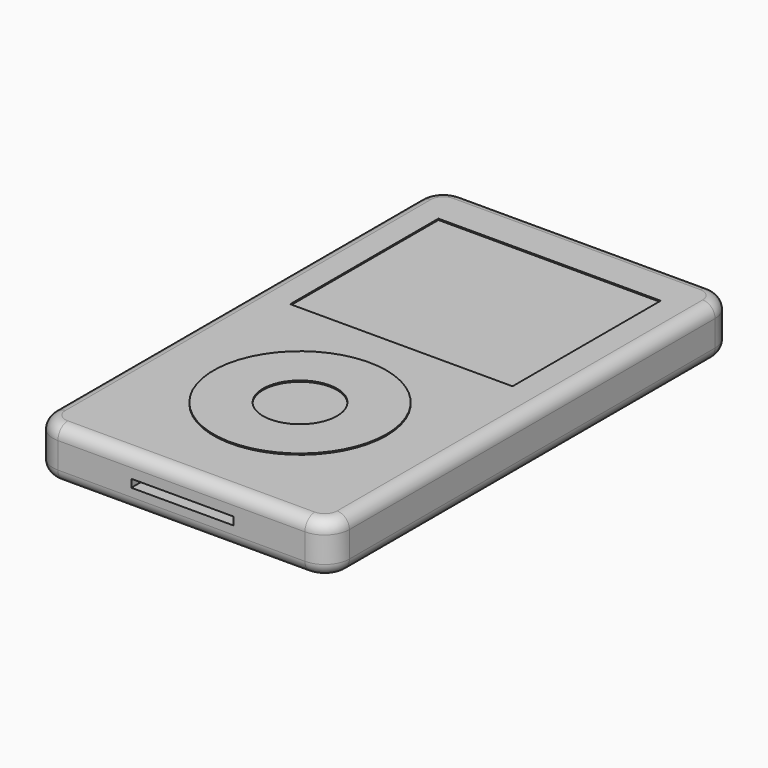
from build123d import *

# Parameters (mm, degrees)
F0_W      = 60.96
F0_H      = 104.14
F1_DEPTH  = 10.414
F2_R      = 5.08
F3_R      = 17.78
F3_R_2    = 7.62
F4_DEPTH  = 0.254
F5_R      = 2.54
F6_W      = 45.72
F6_H      = 38.1
F7_DEPTH  = 0.254
F8_R      = 1.763913
F9_DEPTH  = 19.05
F10_W     = 21.063223
F10_H     = 1.628075
F11_DEPTH = 19.05


with BuildPart() as f1:
    # F0 (on Top) → F1 (new body)
    with BuildSketch(Plane.XY):
        with Locations((-7.626853, -3.795236)):
            Rectangle(F0_W, F0_H)
    extrude(amount=F1_DEPTH)

    # F2
    f2_edges = [f1.edges().sort_by_distance(p)[0] for p in [
        (22.853147, 48.274764, 5.207),
        (-38.106853, 48.274764, 5.207),
        (22.853147, -55.865236, 5.207),
        (-38.106853, -55.865236, 5.207),
    ]]
    fillet(f2_edges, radius=F2_R)

    # F3 (on face) → F4 (join)
    with BuildSketch(Plane.XY.offset(10.414)):
        with Locations((-7.626853, -25.385236)):
            Circle(F3_R)
        with Locations((-7.626853, -25.385236)):
            Circle(F3_R_2, mode=Mode.SUBTRACT)
    extrude(amount=F4_DEPTH)

    # F5
    f5_edges = [f1.edges().sort_by_distance(p)[0] for p in [
        (22.853147, -3.795236, 10.414),
        (-38.106853, -3.795236, 0),
    ]]
    fillet(f5_edges, radius=F5_R)

    # F6 (on face) → F7 (cut)
    with BuildSketch(Plane.XY.offset(10.414)):
        with Locations((-7.626853, 19.714694)):
            Rectangle(F6_W, F6_H)
    extrude(amount=-F7_DEPTH, mode=Mode.SUBTRACT)

    # F8 (on face) → F9 (cut)
    with BuildSketch(Plane(origin=(0, 48.274764, 0), x_dir=(-1, 0, 0), z_dir=(0, 1, 0))):
        with Locations((-13.314613, 4.846008)):
            Circle(F8_R)
    extrude(amount=-F9_DEPTH, mode=Mode.SUBTRACT)

    # F10 (on face) → F11 (cut)
    with BuildSketch(Plane.XZ.offset(55.865236)):
        with Locations((-7.410378, 5.054059)):
            Rectangle(F10_W, F10_H)
    extrude(amount=-F11_DEPTH, mode=Mode.SUBTRACT)


solid = f1.part
